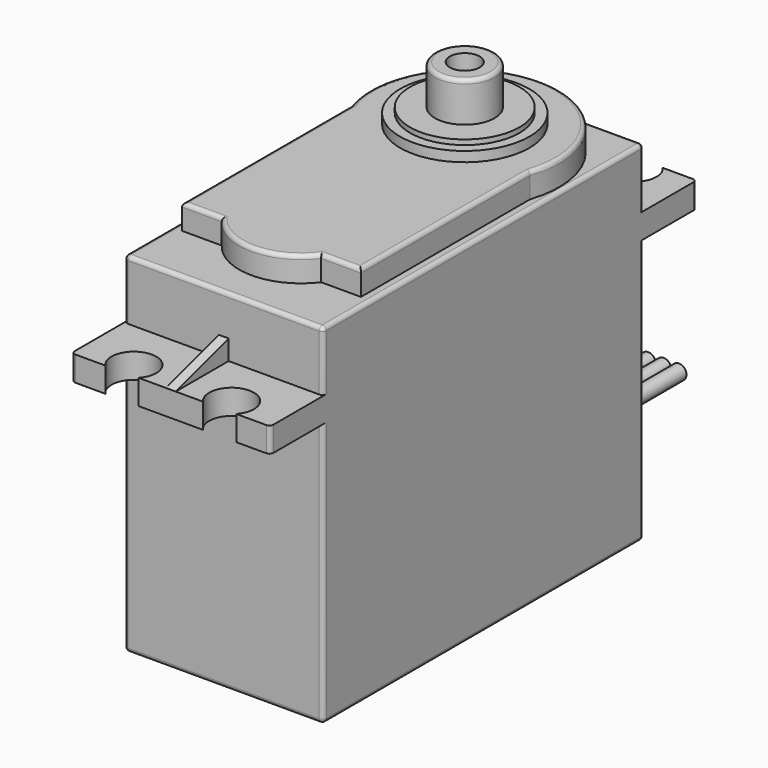
from build123d import *

# Parameters (mm, degrees)
SKETCH_W        = 20
SKETCH_H        = 40.3
PAD_DEPTH       = 26.6
SKETCH001_W     = 20
SKETCH001_H     = 53.6
PAD001_DEPTH    = 2.5
SKETCH002_W     = 20
SKETCH002_H     = 40.3
PAD002_DEPTH    = 6
PAD003_DEPTH    = 2.5
SKETCH004_R     = 6.5
PAD004_DEPTH    = 1
SKETCH005_R     = 5.5
PAD005_DEPTH    = 0.5
SKETCH006_R     = 3
PAD006_DEPTH    = 4
SKETCH007_R     = 1.5
POCKET_DEPTH    = 5
SKETCH008_R     = 2.25
POCKET001_DEPTH = 5
SKETCH009_W     = 1
SKETCH009_H     = 6.65
PAD007_DEPTH    = 2
POCKET002_DEPTH = 1
FILLET_R        = 0.4
SKETCH011_W     = 6.5
SKETCH011_H     = 4
PAD008_DEPTH    = 1
SKETCH012_W     = 5.5
SKETCH012_H     = 3
PAD009_DEPTH    = 4
SKETCH013_R     = 0.75
PAD010_DEPTH    = 10


with BuildPart() as part:
    # Sketch → Pad (new body)
    with BuildSketch(Plane.XY):
        Rectangle(SKETCH_W, SKETCH_H)
    extrude(amount=PAD_DEPTH)

    # Sketch001 (on Face6 of Pad) → Pad001 (join)
    with BuildSketch(Plane.XY.offset(26.6)):
        Rectangle(SKETCH001_W, SKETCH001_H)
    extrude(amount=PAD001_DEPTH)

    # Sketch002 (on Face5 of Pad001) → Pad002 (join)
    with BuildSketch(Plane.XY.offset(29.1)):
        Rectangle(SKETCH002_W, SKETCH002_H)
    extrude(amount=PAD002_DEPTH)

    # Sketch003 (on Face18 of Pad002) → Pad003 (join)
    with BuildSketch(Plane.XY.offset(35.1)):
        with BuildLine():
            ThreePointArc((9, 7.108619), (0, 19.65), (-9, 7.108619))
            Line((-9, 7.108619), (-9, -14.15))
            Line((-9, -14.15), (-5, -14.15))
            ThreePointArc((-5, -14.15), (0, -16.65), (5, -14.15))
            Line((5, -14.15), (9, -14.15))
            Line((9, -14.15), (9, 7.108619))
        make_face()
    extrude(amount=PAD003_DEPTH)

    # Sketch004 (on Face25 of Pad003) → Pad004 (join)
    with BuildSketch(Plane.XY.offset(37.6)):
        with Locations((0, 10.15)):
            Circle(SKETCH004_R)
    extrude(amount=PAD004_DEPTH)

    # Sketch005 (on Face27 of Pad004) → Pad005 (join)
    with BuildSketch(Plane.XY.offset(38.6)):
        with Locations((0, 10.15)):
            Circle(SKETCH005_R)
    extrude(amount=PAD005_DEPTH)

    # Sketch006 (on Face29 of Pad005) → Pad006 (join)
    with BuildSketch(Plane.XY.offset(39.1)):
        with Locations((0, 10.15)):
            Circle(SKETCH006_R)
    extrude(amount=PAD006_DEPTH)

    # Sketch007 (on Face31 of Pad006) → Pocket (cut)
    with BuildSketch(Plane.XY.offset(43.1)):
        with Locations((0, 10.15)):
            Circle(SKETCH007_R)
    extrude(amount=-POCKET_DEPTH, mode=Mode.SUBTRACT)

    # Sketch008 (on Face5 of Pocket) → Pocket001 (cut)
    with BuildSketch(Plane.XY.offset(29.1)):
        with Locations((-4.911566, 25.3)):
            Circle(SKETCH008_R)
        with Locations((4.911566, 25.3)):
            Circle(SKETCH008_R)
        with Locations((-4.911566, -25.3)):
            Circle(SKETCH008_R)
        with Locations((4.911566, -25.3)):
            Circle(SKETCH008_R)
    extrude(amount=-POCKET001_DEPTH, mode=Mode.SUBTRACT)

    # Sketch009 (on Face4 of Pocket001) → Pad007 (join)
    with BuildSketch(Plane.XY.offset(29.1)):
        with Locations((0, 23.475)):
            Rectangle(SKETCH009_W, SKETCH009_H)
        with Locations((0, -23.475)):
            Rectangle(SKETCH009_W, SKETCH009_H)
    extrude(amount=PAD007_DEPTH)

    # Sketch010 (on Face28 of Pad007) → Pocket002 (cut)
    with BuildSketch(Plane.YZ.offset(0.5)):
        Polygon((-26.8, 29.1), (-26.8, 31.1), (-20.15, 31.1), align=None)
        Polygon((20.15, 31.1), (26.8, 31.1), (26.8, 29.1), align=None)
    extrude(amount=-POCKET002_DEPTH, mode=Mode.SUBTRACT)

    # Fillet
    fillet_edges = [part.edges().sort_by_distance(p)[0] for p in [
        (10, -20.15, 13.3),
        (-10, -20.15, 13.3),
        (10, 20.15, 13.3),
        (-10, 20.15, 13.3),
        (-10, 20.15, 32.1),
        (10, 20.15, 32.1),
        (-10, -20.15, 32.1),
        (10, -20.15, 32.1),
        (-10, 0, 35.1),
        (0, -20.15, 35.1),
        (10, 0, 35.1),
        (0, 20.15, 35.1),
        (10, 26.8, 27.85),
        (-10, 26.8, 27.85),
        (-10, -26.8, 27.85),
        (10, -26.8, 27.85),
        (0, 19.65, 37.6),
        (-9, -3.520691, 37.6),
        (-7, -14.15, 37.6),
        (0, -16.65, 37.6),
        (7, -14.15, 37.6),
        (9, -3.520691, 37.6),
        (-3, 10.15, 43.1),
        (0, 20.15, 0),
        (10, 0, 0),
        (0, -20.15, 0),
        (-10, 0, 0),
    ]]
    fillet(fillet_edges, radius=FILLET_R)

    # Sketch011 (on Face50 of Fillet) → Pad008 (join)
    with BuildSketch(Plane(origin=(0, 20.15, 0), x_dir=(-1, 0, 0), z_dir=(0, 1, 0))):
        with Locations((0, 6)):
            Rectangle(SKETCH011_W, SKETCH011_H)
    extrude(amount=PAD008_DEPTH)

    # Sketch012 (on Face77 of Pad008) → Pad009 (join)
    with BuildSketch(Plane(origin=(0, 21.15, 0), x_dir=(-1, 0, 0), z_dir=(0, 1, 0))):
        with Locations((0, 6)):
            Rectangle(SKETCH012_W, SKETCH012_H)
    extrude(amount=PAD009_DEPTH)

    # Sketch013 (on Face89 of Pad009) → Pad010 (join)
    with BuildSketch(Plane(origin=(0, 25.15, 0), x_dir=(-1, 0, 0), z_dir=(0, 1, 0))):
        with Locations((-1.55, 6)):
            Circle(SKETCH013_R)
        with Locations((0, 6)):
            Circle(SKETCH013_R)
        with Locations((1.55, 6)):
            Circle(SKETCH013_R)
    extrude(amount=PAD010_DEPTH)


solid = part.part
